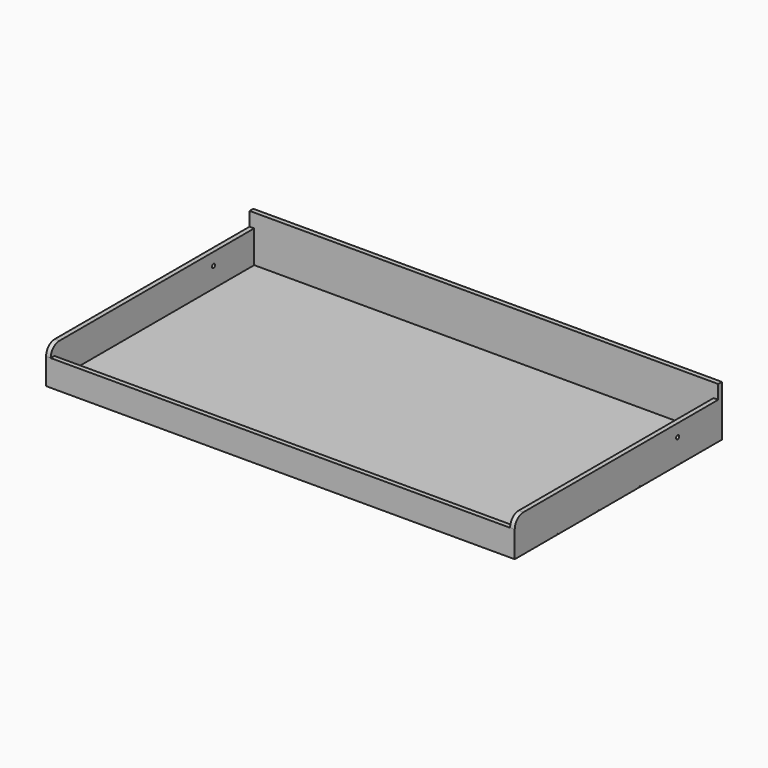
from build123d import *

# Parameters (mm, degrees)
F0_W      = 1930.4
F0_H      = 1066.8
F1_DEPTH  = 19.05
F2_W      = 1930.4
F2_H      = 19.05
F3_DEPTH  = 88.9
F4_W      = 1930.4
F4_H      = 19.05
F5_DEPTH  = 190.5
F7_DEPTH  = 19.05
F9_DEPTH  = 19.05
F10_R     = 7.9375
F11_DEPTH = 1930.401
F12_W     = 3.175
F12_H     = 3.175
F13_DEPTH = 1930.4


with BuildPart() as f1:
    # F0 (on Top) → F1 (new body)
    with BuildSketch(Plane.XY):
        Rectangle(F0_W, F0_H)
    extrude(amount=F1_DEPTH)

    # F2 (on face) → F3 (join)
    with BuildSketch(Plane.XY.offset(19.05)):
        with Locations((0, -523.875)):
            Rectangle(F2_W, F2_H)
    extrude(amount=F3_DEPTH)

    # F4 (on face) → F5 (join)
    with BuildSketch(Plane.XY.offset(19.05)):
        with Locations((0, 523.875)):
            Rectangle(F4_W, F4_H)
    extrude(amount=F5_DEPTH)

    # F6 (on face) → F7 (join)
    with BuildSketch(Plane(origin=(-965.2, 0, 0), x_dir=(0, -1, 0), z_dir=(-1, 0, 0))):
        with BuildLine():
            Line((-533.4, 0), (533.4, 0))
            Line((533.4, 0), (533.4, 107.95))
            ThreePointArc((533.4, 107.95), (520.380896, 139.380896), (488.95, 152.4))
            Line((488.95, 152.4), (-533.4, 152.4))
            Line((-533.4, 152.4), (-533.4, 0))
        make_face()
    extrude(amount=-F7_DEPTH)

    # F8 (on face) → F9 (join)
    with BuildSketch(Plane.YZ.offset(965.2)):
        with BuildLine():
            Line((-533.4, 107.95), (-533.4, 0))
            Line((-533.4, 0), (533.4, 0))
            Line((533.4, 0), (533.4, 152.4))
            Line((533.4, 152.4), (-488.95, 152.4))
            ThreePointArc((-488.95, 152.4), (-520.380896, 139.380896), (-533.4, 107.95))
        make_face()
    extrude(amount=-F9_DEPTH)

    # F10 (on face) → F11 (cut, through all)
    with BuildSketch(Plane(origin=(-965.2, 0, 0), x_dir=(0, -1, 0), z_dir=(-1, 0, 0))):
        with Locations((-304.8, 101.6)):
            Circle(F10_R)
    extrude(amount=-F11_DEPTH, mode=Mode.SUBTRACT)

    # F12 (on face) → F13 (cut, through all)
    with BuildSketch(Plane(origin=(-965.2, 0, 0), x_dir=(0, -1, 0), z_dir=(-1, 0, 0))):
        with Locations((-323.5325, 1.5875)):
            Rectangle(F12_W, F12_H)
        with Locations((-111.4425, 1.5875)):
            Rectangle(F12_W, F12_H)
        with Locations((100.6475, 1.5875)):
            Rectangle(F12_W, F12_H)
        with Locations((312.7375, 1.5875)):
            Rectangle(F12_W, F12_H)
    extrude(amount=-F13_DEPTH, mode=Mode.SUBTRACT)


solid = f1.part
